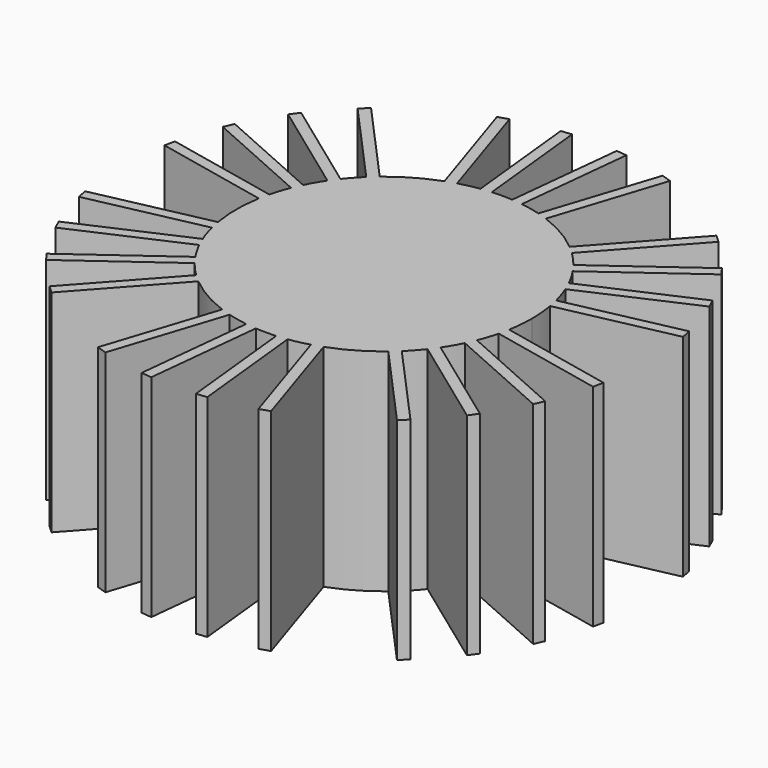
from build123d import *

# Parameters (mm, degrees)
F1_DEPTH = 20


with BuildPart() as f1:
    # F0 (on Top) → F1 (new body)
    with BuildSketch(Plane.XY):
        with BuildLine():
            ThreePointArc((13.7892860083, -2.4198329244), (13.9472220194, -1.2144949329), (14, 0))
            ThreePointArc((14, 0), (13.9472220194, 1.2144949329), (13.7892860083, 2.4198329244))
            ThreePointArc((13.7892860083, 2.4198329244), (13.6940664103, 2.9107636714), (13.5813743175, 3.3979805251))
            ThreePointArc((13.5813743175, 3.3979805251), (13.3147912281, 4.3262379212), (12.98484547, 5.2339075383))
            ThreePointArc((12.98484547, 5.2339075383), (12.789636407, 5.6943130031), (12.578108827, 6.1474529959))
            ThreePointArc((12.578108827, 6.1474529959), (12.124355653, 7), (11.6129048765, 7.8192352777))
            ThreePointArc((11.6129048765, 7.8192352777), (11.3262379212, 8.2289935321), (11.0251196242, 8.6282522721))
            ThreePointArc((11.0251196242, 8.6282522721), (10.4040275567, 9.367828489), (9.733424615, 10.0628249147))
            ThreePointArc((9.733424615, 10.0628249147), (9.367828489, 10.4040275567), (8.9902797896, 10.731955521))
            ThreePointArc((8.9902797896, 10.731955521), (7, 12.124355653), (4.7990062187, 13.1517884454))
            ThreePointArc((4.7990062187, 13.1517884454), (4.3262379212, 13.3147912281), (3.8479497024, 13.4608054398))
            ThreePointArc((3.8479497024, 13.4608054398), (2.9107636714, 13.6940664103), (1.9597258458, 13.8621598104))
            Line((1.9597258458, 13.8621598104), (0.9652039504, 13.9666882737))
            ThreePointArc((0.9652039504, 13.9666882737), (0.4828893085, 13.99166959), (0, 14))
            ThreePointArc((0, 14), (-0.4828893085, 13.99166959), (-0.9652039504, 13.9666882737))
            ThreePointArc((-0.9652039504, 13.9666882737), (-1.4633984857, 13.9233065352), (-1.9597258458, 13.8621598104))
            ThreePointArc((-1.9597258458, 13.8621598104), (-2.9107636714, 13.6940664103), (-3.8479497024, 13.4608054398))
            ThreePointArc((-3.8479497024, 13.4608054398), (-4.3262379212, 13.3147912281), (-4.7990062187, 13.1517884454))
            ThreePointArc((-4.7990062187, 13.1517884454), (-7, 12.124355653), (-8.9902797896, 10.731955521))
            ThreePointArc((-8.9902797896, 10.731955521), (-9.367828489, 10.4040275567), (-9.733424615, 10.0628249147))
            ThreePointArc((-9.733424615, 10.0628249147), (-10.4040275567, 9.367828489), (-11.0251196242, 8.6282522721))
            ThreePointArc((-11.0251196242, 8.6282522721), (-11.3262379212, 8.2289935321), (-11.6129048765, 7.8192352777))
            ThreePointArc((-11.6129048765, 7.8192352777), (-12.124355653, 7), (-12.578108827, 6.1474529959))
            ThreePointArc((-12.578108827, 6.1474529959), (-12.789636407, 5.6943130031), (-12.98484547, 5.2339075383))
            ThreePointArc((-12.98484547, 5.2339075383), (-13.3147912281, 4.3262379212), (-13.5813743175, 3.3979805251))
            ThreePointArc((-13.5813743175, 3.3979805251), (-13.6940664103, 2.9107636714), (-13.7892860083, 2.4198329244))
            ThreePointArc((-13.7892860083, 2.4198329244), (-14, 0), (-13.7892860083, -2.4198329244))
            ThreePointArc((-13.7892860083, -2.4198329244), (-13.6940664103, -2.9107636714), (-13.5813743175, -3.3979805251))
            ThreePointArc((-13.5813743175, -3.3979805251), (-13.3147912281, -4.3262379212), (-12.98484547, -5.2339075383))
            ThreePointArc((-12.98484547, -5.2339075383), (-12.789636407, -5.6943130031), (-12.578108827, -6.1474529959))
            ThreePointArc((-12.578108827, -6.1474529959), (-12.124355653, -7), (-11.6129048765, -7.8192352777))
            ThreePointArc((-11.6129048765, -7.8192352777), (-11.3262379212, -8.2289935321), (-11.0251196242, -8.6282522721))
            ThreePointArc((-11.0251196242, -8.6282522721), (-10.4040275567, -9.367828489), (-9.733424615, -10.0628249147))
            ThreePointArc((-9.733424615, -10.0628249147), (-9.367828489, -10.4040275567), (-8.9902797896, -10.731955521))
            ThreePointArc((-8.9902797896, -10.731955521), (-7, -12.124355653), (-4.7990062187, -13.1517884454))
            ThreePointArc((-4.7990062187, -13.1517884454), (-4.3262379212, -13.3147912281), (-3.8479497024, -13.4608054398))
            ThreePointArc((-3.8479497024, -13.4608054398), (-2.9107636714, -13.6940664103), (-1.9597258458, -13.8621598104))
            ThreePointArc((-1.9597258458, -13.8621598104), (-1.4633984857, -13.9233065352), (-0.9652039504, -13.9666882737))
            ThreePointArc((-0.9652039504, -13.9666882737), (0, -14), (0.9652039504, -13.9666882737))
            ThreePointArc((0.9652039504, -13.9666882737), (1.4633984857, -13.9233065352), (1.9597258458, -13.8621598104))
            ThreePointArc((1.9597258458, -13.8621598104), (2.9107636714, -13.6940664103), (3.8479497024, -13.4608054398))
            ThreePointArc((3.8479497024, -13.4608054398), (4.3262379212, -13.3147912281), (4.7990062187, -13.1517884454))
            ThreePointArc((4.7990062187, -13.1517884454), (7, -12.124355653), (8.9902797896, -10.731955521))
            ThreePointArc((8.9902797896, -10.731955521), (9.367828489, -10.4040275567), (9.733424615, -10.0628249147))
            ThreePointArc((9.733424615, -10.0628249147), (10.4040275567, -9.367828489), (11.0251196242, -8.6282522721))
            ThreePointArc((11.0251196242, -8.6282522721), (11.3262379212, -8.2289935321), (11.6129048765, -7.8192352777))
            ThreePointArc((11.6129048765, -7.8192352777), (12.124355653, -7), (12.578108827, -6.1474529959))
            ThreePointArc((12.578108827, -6.1474529959), (12.789636407, -5.6943130031), (12.98484547, -5.2339075383))
            ThreePointArc((12.98484547, -5.2339075383), (13.3147912281, -4.3262379212), (13.5813743175, -3.3979805251))
            ThreePointArc((13.5813743175, -3.3979805251), (13.6940664103, -2.9107636714), (13.7892860083, -2.4198329244))
        make_face()
        with BuildLine():
            ThreePointArc((13.5813743175, 3.3979805251), (13.6940664103, 2.9107636714), (13.7892860083, 2.4198329244))
            Line((13.7892860083, 2.4198329244), (24.5489096164, 4.7068615234))
            Line((24.5489096164, 4.7068615234), (24.3409979255, 5.6850091241))
            Line((24.3409979255, 5.6850091241), (13.5813743175, 3.3979805251))
        make_face()
        with BuildLine():
            Line((24.5489096164, -4.7068615234), (13.7892860083, -2.4198329244))
            ThreePointArc((13.7892860083, -2.4198329244), (13.6940664103, -2.9107636714), (13.5813743175, -3.3979805251))
            Line((13.5813743175, -3.3979805251), (24.3409979255, -5.6850091241))
            Line((24.3409979255, -5.6850091241), (24.5489096164, -4.7068615234))
        make_face()
        with BuildLine():
            ThreePointArc((12.578108827, 6.1474529959), (12.789636407, 5.6943130031), (12.98484547, 5.2339075383))
            Line((12.98484547, 5.2339075383), (23.0338455041, 9.7080106121))
            Line((23.0338455041, 9.7080106121), (22.627108861, 10.6215560698))
            Line((22.627108861, 10.6215560698), (12.578108827, 6.1474529959))
        make_face()
        with BuildLine():
            Line((23.0338455041, -9.7080106121), (12.98484547, -5.2339075383))
            ThreePointArc((12.98484547, -5.2339075383), (12.789636407, -5.6943130031), (12.578108827, -6.1474529959))
            Line((12.578108827, -6.1474529959), (22.627108861, -10.6215560698))
            Line((22.627108861, -10.6215560698), (23.0338455041, -9.7080106121))
        make_face()
        with BuildLine():
            ThreePointArc((11.0251196242, 8.6282522721), (11.3262379212, 8.2289935321), (11.6129048765, 7.8192352777))
            Line((11.6129048765, 7.8192352777), (20.5120918147, 14.284873053))
            Line((20.5120918147, 14.284873053), (19.9243065624, 15.0938900473))
            Line((19.9243065624, 15.0938900473), (11.0251196242, 8.6282522721))
        make_face()
        with BuildLine():
            Line((20.5120918147, -14.284873053), (11.6129048765, -7.8192352777))
            ThreePointArc((11.6129048765, -7.8192352777), (11.3262379212, -8.2289935321), (11.0251196242, -8.6282522721))
            Line((11.0251196242, -8.6282522721), (19.9243065624, -15.0938900473))
            Line((19.9243065624, -15.0938900473), (20.5120918147, -14.284873053))
        make_face()
        with BuildLine():
            ThreePointArc((8.9902797896, 10.731955521), (9.367828489, 10.4040275567), (9.733424615, 10.0628249147))
            Line((9.733424615, 10.0628249147), (17.093861285, 18.2374179949))
            Line((17.093861285, 18.2374179949), (16.3507164595, 18.9065486013))
            Line((16.3507164595, 18.9065486013), (8.9902797896, 10.731955521))
        make_face()
        with BuildLine():
            Line((17.093861285, -18.2374179949), (9.733424615, -10.0628249147))
            ThreePointArc((9.733424615, -10.0628249147), (9.367828489, -10.4040275567), (8.9902797896, -10.731955521))
            Line((8.9902797896, -10.731955521), (16.3507164595, -18.9065486013))
            Line((16.3507164595, -18.9065486013), (17.093861285, -18.2374179949))
        make_face()
        with BuildLine():
            ThreePointArc((3.8479497024, 13.4608054398), (4.3262379212, 13.3147912281), (4.7990062187, 13.1517884454))
            Line((4.7990062187, 13.1517884454), (8.1981931568, 23.6134101247))
            Line((8.1981931568, 23.6134101247), (7.2471366405, 23.922427119))
            Line((7.2471366405, 23.922427119), (3.8479497024, 13.4608054398))
        make_face()
        with BuildLine():
            Line((8.1981931568, -23.6134101247), (4.7990062187, -13.1517884454))
            ThreePointArc((4.7990062187, -13.1517884454), (4.3262379212, -13.3147912281), (3.8479497024, -13.4608054398))
            Line((3.8479497024, -13.4608054398), (7.2471366405, -23.922427119))
            Line((7.2471366405, -23.922427119), (8.1981931568, -23.6134101247))
        make_face()
        with BuildLine():
            Line((0.9652039504, 13.9666882737), (1.9597258458, 13.8621598104))
            ThreePointArc((1.9597258458, 13.8621598104), (1.7118352075, 13.8949494502), (1.4633984857, 13.9233065352))
            ThreePointArc((1.4633984857, 13.9233065352), (1.2144949329, 13.9472220194), (0.9652039504, 13.9666882737))
        make_face()
        with BuildLine():
            ThreePointArc((1.4633984857, 13.9233065352), (1.7118352075, 13.8949494502), (1.9597258458, 13.8621598104))
            Line((1.9597258458, 13.8621598104), (3.1095389417, 24.8019006595))
            Line((3.1095389417, 24.8019006595), (2.612277994, 24.8541648911))
            Line((2.612277994, 24.8541648911), (1.4633984857, 13.9233065352))
        make_face()
        with BuildLine():
            Line((3.1095389417, -24.8019006595), (1.9597258458, -13.8621598104))
            ThreePointArc((1.9597258458, -13.8621598104), (1.4633984857, -13.9233065352), (0.9652039504, -13.9666882737))
            Line((0.9652039504, -13.9666882737), (2.1150170464, -24.9064291227))
            Line((2.1150170464, -24.9064291227), (3.1095389417, -24.8019006595))
        make_face()
        with BuildLine():
            ThreePointArc((0.9652039504, 13.9666882737), (1.2144949329, 13.9472220194), (1.4633984857, 13.9233065352))
            Line((1.4633984857, 13.9233065352), (2.612277994, 24.8541648911))
            Line((2.612277994, 24.8541648911), (2.1150170464, 24.9064291227))
            Line((2.1150170464, 24.9064291227), (0.9652039504, 13.9666882737))
        make_face()
        with BuildLine():
            Line((-2.1150170464, -24.9064291227), (-0.9652039504, -13.9666882737))
            ThreePointArc((-0.9652039504, -13.9666882737), (-1.4633984857, -13.9233065352), (-1.9597258458, -13.8621598104))
            Line((-1.9597258458, -13.8621598104), (-3.1095389417, -24.8019006595))
            Line((-3.1095389417, -24.8019006595), (-2.1150170464, -24.9064291227))
        make_face()
        with BuildLine():
            ThreePointArc((-1.9597258458, 13.8621598104), (-1.4633984857, 13.9233065352), (-0.9652039504, 13.9666882737))
            Line((-0.9652039504, 13.9666882737), (-2.1150170464, 24.9064291227))
            Line((-2.1150170464, 24.9064291227), (-3.1095389417, 24.8019006595))
            Line((-3.1095389417, 24.8019006595), (-1.9597258458, 13.8621598104))
        make_face()
        with BuildLine():
            Line((-7.2471366405, -23.922427119), (-3.8479497024, -13.4608054398))
            ThreePointArc((-3.8479497024, -13.4608054398), (-4.3262379212, -13.3147912281), (-4.7990062187, -13.1517884454))
            Line((-4.7990062187, -13.1517884454), (-8.1981931568, -23.6134101247))
            Line((-8.1981931568, -23.6134101247), (-7.2471366405, -23.922427119))
        make_face()
        with BuildLine():
            ThreePointArc((-4.7990062187, 13.1517884454), (-4.3262379212, 13.3147912281), (-3.8479497024, 13.4608054398))
            Line((-3.8479497024, 13.4608054398), (-7.2471366405, 23.922427119))
            Line((-7.2471366405, 23.922427119), (-8.1981931568, 23.6134101247))
            Line((-8.1981931568, 23.6134101247), (-4.7990062187, 13.1517884454))
        make_face()
        with BuildLine():
            Line((-16.3507164595, -18.9065486013), (-8.9902797896, -10.731955521))
            ThreePointArc((-8.9902797896, -10.731955521), (-9.367828489, -10.4040275567), (-9.733424615, -10.0628249147))
            Line((-9.733424615, -10.0628249147), (-17.093861285, -18.2374179949))
            Line((-17.093861285, -18.2374179949), (-16.3507164595, -18.9065486013))
        make_face()
        with BuildLine():
            ThreePointArc((-9.733424615, 10.0628249147), (-9.367828489, 10.4040275567), (-8.9902797896, 10.731955521))
            Line((-8.9902797896, 10.731955521), (-16.3507164595, 18.9065486013))
            Line((-16.3507164595, 18.9065486013), (-17.093861285, 18.2374179949))
            Line((-17.093861285, 18.2374179949), (-9.733424615, 10.0628249147))
        make_face()
        with BuildLine():
            Line((-19.9243065624, -15.0938900473), (-11.0251196242, -8.6282522721))
            ThreePointArc((-11.0251196242, -8.6282522721), (-11.3262379212, -8.2289935321), (-11.6129048765, -7.8192352777))
            Line((-11.6129048765, -7.8192352777), (-20.5120918147, -14.284873053))
            Line((-20.5120918147, -14.284873053), (-19.9243065624, -15.0938900473))
        make_face()
        with BuildLine():
            ThreePointArc((-11.6129048765, 7.8192352777), (-11.3262379212, 8.2289935321), (-11.0251196242, 8.6282522721))
            Line((-11.0251196242, 8.6282522721), (-19.9243065624, 15.0938900473))
            Line((-19.9243065624, 15.0938900473), (-20.5120918147, 14.284873053))
            Line((-20.5120918147, 14.284873053), (-11.6129048765, 7.8192352777))
        make_face()
        with BuildLine():
            Line((-22.627108861, -10.6215560698), (-12.578108827, -6.1474529959))
            ThreePointArc((-12.578108827, -6.1474529959), (-12.789636407, -5.6943130031), (-12.98484547, -5.2339075383))
            Line((-12.98484547, -5.2339075383), (-23.0338455041, -9.7080106121))
            Line((-23.0338455041, -9.7080106121), (-22.627108861, -10.6215560698))
        make_face()
        with BuildLine():
            ThreePointArc((-12.98484547, 5.2339075383), (-12.789636407, 5.6943130031), (-12.578108827, 6.1474529959))
            Line((-12.578108827, 6.1474529959), (-22.627108861, 10.6215560698))
            Line((-22.627108861, 10.6215560698), (-23.0338455041, 9.7080106121))
            Line((-23.0338455041, 9.7080106121), (-12.98484547, 5.2339075383))
        make_face()
        with BuildLine():
            Line((-24.3409979255, -5.6850091241), (-13.5813743175, -3.3979805251))
            ThreePointArc((-13.5813743175, -3.3979805251), (-13.6940664103, -2.9107636714), (-13.7892860083, -2.4198329244))
            Line((-13.7892860083, -2.4198329244), (-24.5489096164, -4.7068615234))
            Line((-24.5489096164, -4.7068615234), (-24.3409979255, -5.6850091241))
        make_face()
        with BuildLine():
            ThreePointArc((-13.7892860083, 2.4198329244), (-13.6940664103, 2.9107636714), (-13.5813743175, 3.3979805251))
            Line((-13.5813743175, 3.3979805251), (-24.3409979255, 5.6850091241))
            Line((-24.3409979255, 5.6850091241), (-24.5489096164, 4.7068615234))
            Line((-24.5489096164, 4.7068615234), (-13.7892860083, 2.4198329244))
        make_face()
    extrude(amount=F1_DEPTH)


solid = f1.part
